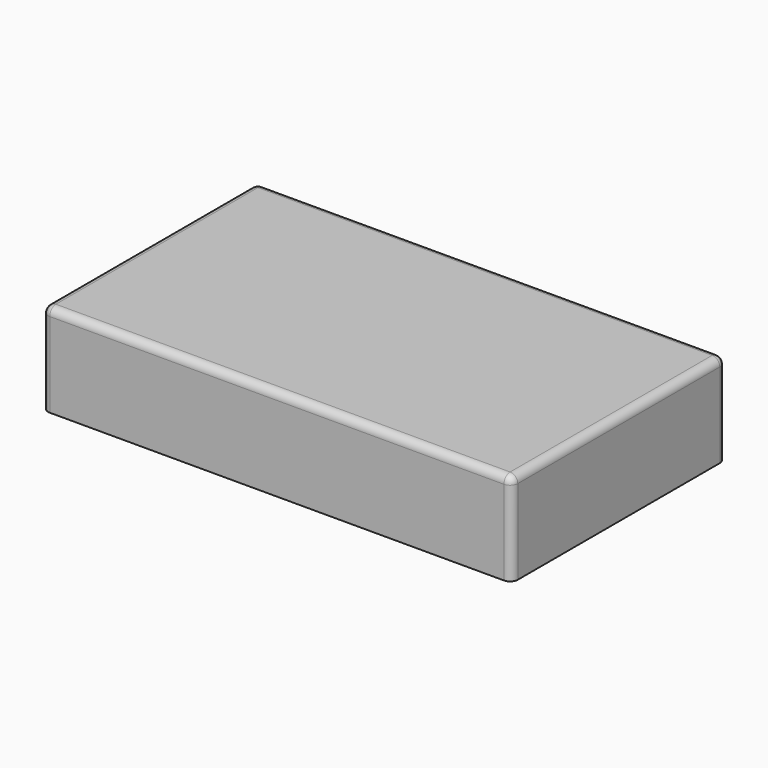
from build123d import *

# Parameters (mm, degrees)
F0_W     = 193.675
F0_H     = 110.49
F1_DEPTH = 38.1
F2_R     = 3.175
F3_T     = -2.54


with BuildPart() as f1:
    # F0 (on Top) → F1 (new body)
    with BuildSketch(Plane.XY):
        with Locations((-19.322108, 8.169052)):
            Rectangle(F0_W, F0_H)
    extrude(amount=F1_DEPTH)

    # F2
    f2_edges = [f1.edges().sort_by_distance(p)[0] for p in [
        (-116.159608, 8.169052, 38.1),
        (-19.322108, 63.414052, 38.1),
        (-19.322108, -47.075948, 38.1),
        (77.515392, 8.169052, 38.1),
        (77.515392, 63.414052, 19.05),
        (77.515392, -47.075948, 19.05),
        (-116.159608, -47.075948, 19.05),
        (-116.159608, 63.414052, 19.05),
    ]]
    fillet(f2_edges, radius=F2_R)

    # F3
    f3_openings = [f1.faces().sort_by_distance(p)[0] for p in [
        (-19.322108, 8.169052, 0),
    ]]
    offset(amount=F3_T, openings=f3_openings)


solid = f1.part
